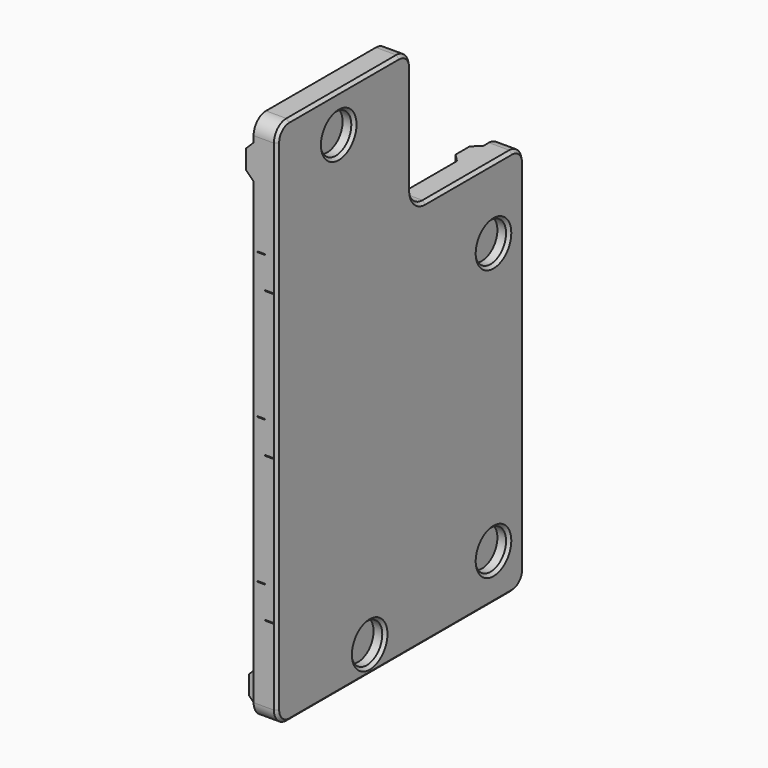
from build123d import *

# Parameters (mm, degrees)
PAD078_DEPTH        = 6
PAD079_START        = -36.5
PAD079_DEPTH        = 100.5
PAD080_START        = 36.5
PAD080_DEPTH        = 43.5
PAD081_START        = 20.3
PAD081_DEPTH        = 58.7
SKETCH337_W         = 20
SKETCH337_H         = 16
SKETCH337_W_2       = 16
SKETCH337_H_2       = 20
POCKET214_DEPTH     = 2.001
SKETCH396_R         = 5
POCKET278_DEPTH     = 3.001
SKETCH397_R         = 2.75
POCKET279_DEPTH     = 4.701
CHAMFER_SIZE        = 0.75
SKETCH_W            = 2
SKETCH_H            = 0.2
POCKET_DEPTH        = 0.001
POCKET_DEPTH_BACK   = 80.001
LINEARPATTERN_COUNT = 3
LINEARPATTERN_PITCH = 37.5


with BuildPart() as part:
    # Sketch334 → Pad078 (new body)
    with BuildSketch(Plane.YZ):
        with BuildLine():
            Line((-76, 0), (-40.5, 0))
            ThreePointArc((-36.5, -4), (-37.671573, -1.171573), (-40.5, 0))
            Line((-36.5, -4), (-36.5, -32))
            ThreePointArc((-36.5, -32), (-35.181981, -35.181981), (-32, -36.5))
            Line((-32, -36.5), (-4, -36.5))
            ThreePointArc((0, -40.5), (-1.171573, -37.671573), (-4, -36.5))
            Line((0, -40.5), (0, -133))
            ThreePointArc((-4, -137), (-1.171573, -135.828427), (0, -133))
            Line((-4, -137), (-76, -137))
            ThreePointArc((-80, -133), (-78.828427, -135.828427), (-76, -137))
            Line((-80, -133), (-80, -4))
            ThreePointArc((-76, 0), (-78.828427, -1.171573), (-80, -4))
        make_face()
    extrude(amount=PAD078_DEPTH)

    # Sketch335 → Pad079 (join)
    with BuildSketch(Plane.XY.offset(PAD079_START)):
        Polygon((0, -5.724264), (-2, -7.724264), (-2, -12.275736), (0, -14.275736), align=None)
    extrude(amount=-PAD079_DEPTH)

    # Sketch338 → Pad080 (join)
    with BuildSketch(Plane.XZ.offset(PAD080_START)):
        Polygon((-2, -7.582843), (0, -5.582843), (0, -14.417157), (-2, -12.417157), align=None)
    extrude(amount=PAD080_DEPTH)

    # Sketch339 → Pad081 (join)
    with BuildSketch(Plane.XZ.offset(PAD081_START)):
        Polygon((0, -125.582843), (-2, -127.582843), (-2, -132.417157), (0, -134.417157), align=None)
    extrude(amount=PAD081_DEPTH)

    # Sketch337 → Pocket214 (cut, through all)
    with BuildSketch(Plane.YZ):
        with Locations((-10, -55)):
            Rectangle(SKETCH337_W, SKETCH337_H)
        with Locations((-60, -10)):
            Rectangle(SKETCH337_W_2, SKETCH337_H_2)
        with Locations((-50, -130)):
            Rectangle(SKETCH337_W_2, SKETCH337_H_2)
        with Locations((-10, -125)):
            Rectangle(SKETCH337_W, SKETCH337_H)
    extrude(amount=-POCKET214_DEPTH, mode=Mode.SUBTRACT)

    # Sketch396 → Pocket278 (cut, through all)
    with BuildSketch(Plane.YZ.offset(3)):
        with Locations((-60, -10)):
            Circle(SKETCH396_R)
        with Locations((-10, -55)):
            Circle(SKETCH396_R)
        with Locations((-10, -125)):
            Circle(SKETCH396_R)
        with Locations((-50, -130)):
            Circle(SKETCH396_R)
    extrude(amount=POCKET278_DEPTH, mode=Mode.SUBTRACT)

    # Sketch397 → Pocket279 (cut, through all)
    with BuildSketch(Plane.YZ.offset(2.7)):
        with Locations((-60, -10)):
            Circle(SKETCH397_R)
        with Locations((-10, -55)):
            Circle(SKETCH397_R)
        with Locations((-10, -125)):
            Circle(SKETCH397_R)
        with Locations((-50, -130)):
            Circle(SKETCH397_R)
    extrude(amount=-POCKET279_DEPTH, mode=Mode.SUBTRACT)

    # Chamfer
    chamfer_edges = [part.edges().sort_by_distance(p)[0] for p in [
        (6, -80, -68.5),
        (6, -78.828427, -135.828427),
        (6, -78.828427, -1.171573),
        (6, -40, -137),
        (6, -58.25, 0),
        (6, -1.171573, -135.828427),
        (6, -37.671573, -1.171573),
        (6, 0, -86.75),
        (6, -36.5, -18),
        (6, -1.171573, -37.671573),
        (6, -35.181981, -35.181981),
        (6, -18, -36.5),
        (6, -15, -125),
        (6, -15, -55),
        (6, -55, -130),
        (6, -65, -10),
    ]]
    chamfer(chamfer_edges, length=CHAMFER_SIZE)

    # Sketch → Pocket (cut, two sides)
    with BuildSketch(Plane.XZ) as pocket_sk:
        with Locations((2, -30.1)):
            Rectangle(SKETCH_W, SKETCH_H)
        with Locations((4, -38.3)):
            Rectangle(SKETCH_W, SKETCH_H)
    pocket = extrude(amount=-POCKET_DEPTH, mode=Mode.SUBTRACT) + extrude(pocket_sk.sketch, amount=POCKET_DEPTH_BACK, mode=Mode.SUBTRACT)

    # LinearPattern: Pocket ×3
    with Locations(*[(0, 0, -i * LINEARPATTERN_PITCH) for i in range(1, LINEARPATTERN_COUNT)]):
        add(pocket, mode=Mode.SUBTRACT)


solid = part.part
